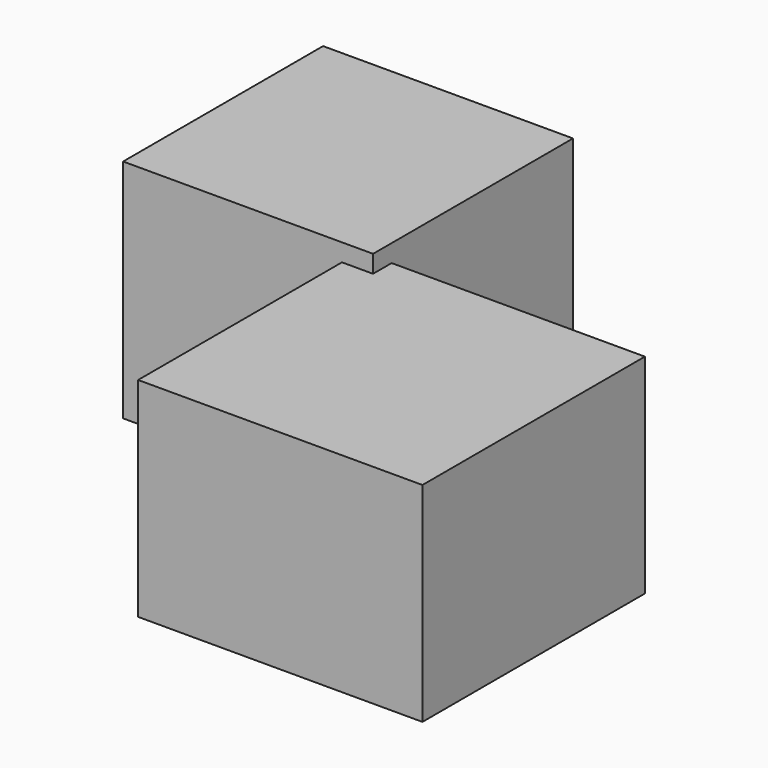
from build123d import *

# Parameters (mm, degrees)
F0_W     = 75.78811
F0_H     = 75.78811
F1_DEPTH = 68.58
F2_W     = 86.212844
F2_H     = 84.310391
F3_DEPTH = 63.246


with BuildPart() as f1:
    # F0 (on Top) → F1 (new body)
    with BuildSketch(Plane.XY):
        with Locations((-37.894055, 37.894055)):
            Rectangle(F0_W, F0_H)
    extrude(amount=F1_DEPTH)

    # F2 (on Top) → F3 (join)
    with BuildSketch(Plane.XY):
        with Locations((33.67956, -35.106386)):
            Rectangle(F2_W, F2_H)
    extrude(amount=F3_DEPTH)


solid = f1.part
